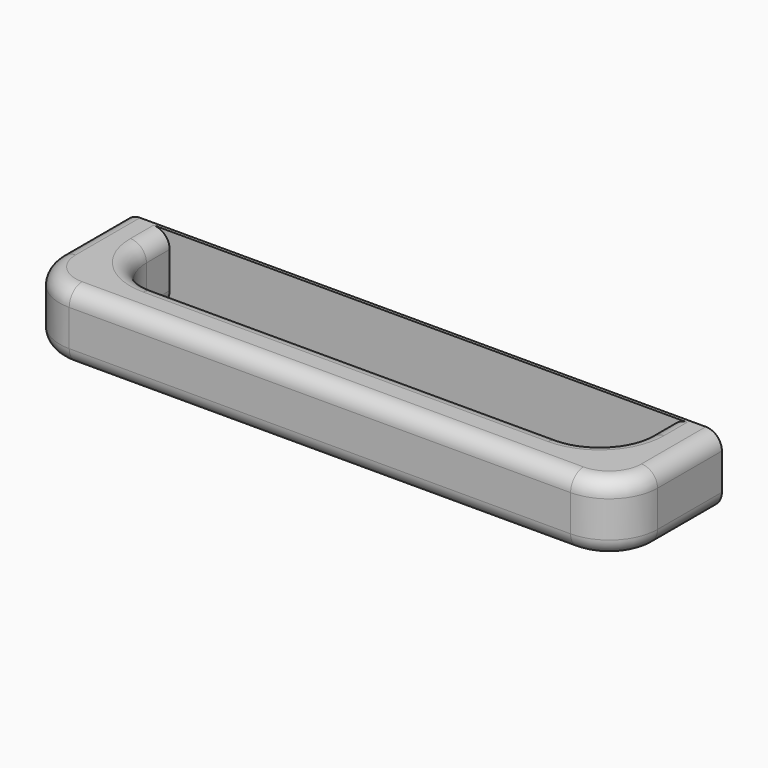
from build123d import *

# Parameters (mm, degrees)
SKETCH008_W     = 185.746766
SKETCH008_H     = 21.2714
PAD006_DEPTH    = 40
SKETCH009_W     = 155.746766
SKETCH009_H     = 24
POCKET002_DEPTH = 21.2724
FILLET_R        = 15
FILLET001_R     = 5


with BuildPart() as part:
    # Sketch008 (on Face1 of CopyPocket001) → Pad006 (new body)
    with BuildSketch(Plane.XZ.offset(825)):
        with Locations((0, -79.507206)):
            Rectangle(SKETCH008_W, SKETCH008_H)
    extrude(amount=PAD006_DEPTH)

    # Sketch009 (on Face4 of Pad006) → Pocket002 (cut, through all)
    with BuildSketch(Plane(origin=(0, 0, -68.871506), x_dir=(-1, 0, 0), z_dir=(0, 0, 1))):
        with Locations((0, 838)):
            Rectangle(SKETCH009_W, SKETCH009_H)
    extrude(amount=-POCKET002_DEPTH, mode=Mode.SUBTRACT)

    # Fillet
    fillet_edges = [part.edges().sort_by_distance(p)[0] for p in [
        (77.873383, -850, -79.507206),
        (-77.873383, -850, -79.507206),
        (-92.873383, -865, -79.507206),
        (92.873383, -865, -79.507206),
    ]]
    fillet(fillet_edges, radius=FILLET_R)

    # Fillet001
    fillet001_edges = [part.edges().sort_by_distance(p)[0] for p in [
        (0, -865, -68.871506),
        (0, -865, -90.142906),
        (0, -850, -68.871506),
        (0, -850, -90.142906),
    ]]
    fillet(fillet001_edges, radius=FILLET001_R)


solid = part.part
